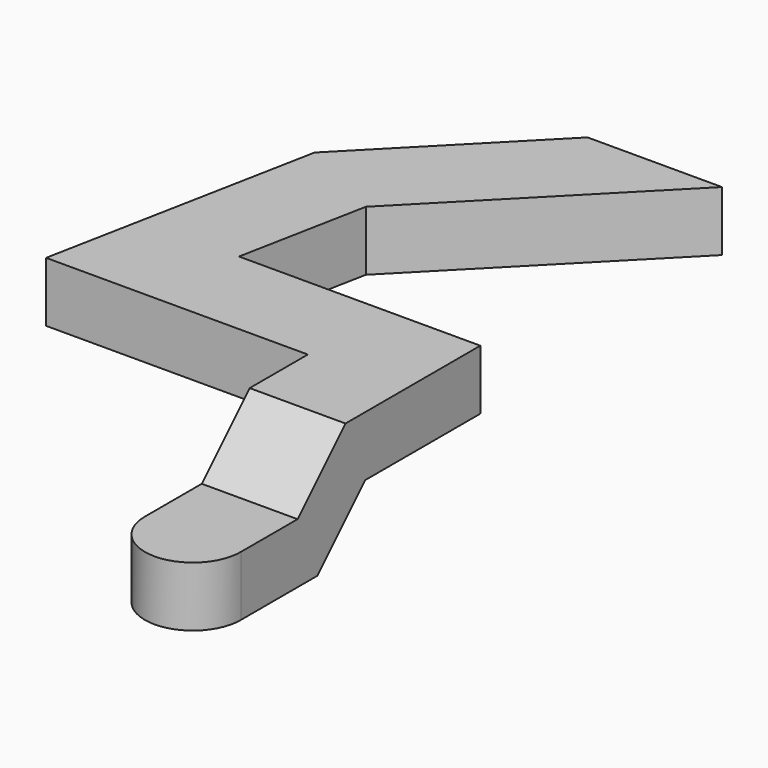
from build123d import *

# Parameters (mm, degrees)
F2_DEPTH = 12.7
F3_DEPTH = 63.5


with BuildPart() as f2:
    # F0 (on Top) → F2 (new body)
    with BuildSketch(Plane.XY):
        with BuildLine():
            ThreePointArc((-5.08, 0), (-3.592102, 3.592102), (0, 5.08))
            Line((0, 5.08), (0, 26.67))
            Line((0, 26.67), (-26.67, 26.67))
            Line((-26.67, 26.67), (-22.572074, 47.752))
            Line((-22.572074, 47.752), (0.57195, 71.30353))
            ThreePointArc((0.57195, 71.30353), (-0.947238, 74.882511), (0.509256, 78.487461))
            Line((0.509256, 78.487461), (-27.267011, 50.222126))
            Line((-27.267011, 50.222126), (-32.832533, 21.59))
            Line((-32.832533, 21.59), (-5.08, 21.59))
            Line((-5.08, 21.59), (-5.08, 0))
        make_face()
        with BuildLine():
            Line((0, 26.67), (0, 5.08))
            ThreePointArc((0, 5.08), (3.592102, 3.592102), (5.08, 0))
            Line((5.08, 0), (5.08, 31.75))
            Line((5.08, 31.75), (-20.507467, 31.75))
            Line((-20.507467, 31.75), (-17.877137, 45.281874))
            Line((-17.877137, 45.281874), (7.755881, 71.366223))
            ThreePointArc((7.755881, 71.366223), (4.176899, 69.847036), (0.57195, 71.30353))
            Line((0.57195, 71.30353), (-22.572074, 47.752))
            Line((-22.572074, 47.752), (-26.67, 26.67))
            Line((-26.67, 26.67), (0, 26.67))
        make_face()
        with BuildLine():
            ThreePointArc((5.08, 0), (3.592102, 3.592102), (0, 5.08))
            ThreePointArc((0, 5.08), (-3.592102, 3.592102), (-5.08, 0))
            ThreePointArc((-5.08, 0), (0, -5.08), (5.08, 0))
        make_face()
        with BuildLine():
            ThreePointArc((0.509256, 78.487461), (-0.947238, 74.882511), (0.57195, 71.30353))
            ThreePointArc((0.57195, 71.30353), (4.176899, 69.847036), (7.755881, 71.366223))
            ThreePointArc((7.755881, 71.366223), (8.834314, 73.003307), (9.212569, 74.926842))
            ThreePointArc((9.212569, 74.926842), (6.056104, 79.628588), (0.509256, 78.487461))
        make_face()
    extrude(amount=F2_DEPTH)

    # F1 (on Right) → F3 (intersect, symmetric)
    with BuildSketch(Plane.YZ):
        Polygon((-5.08, 6.35), (-5.08, 0), (10.16, 0), (16.51, 6.35), (66.4565, 6.35), (66.4565, 12.7), (13.879744, 12.7), (7.529744, 6.35), align=None)
    extrude(amount=F3_DEPTH, both=True, mode=Mode.INTERSECT)


solid = f2.part
